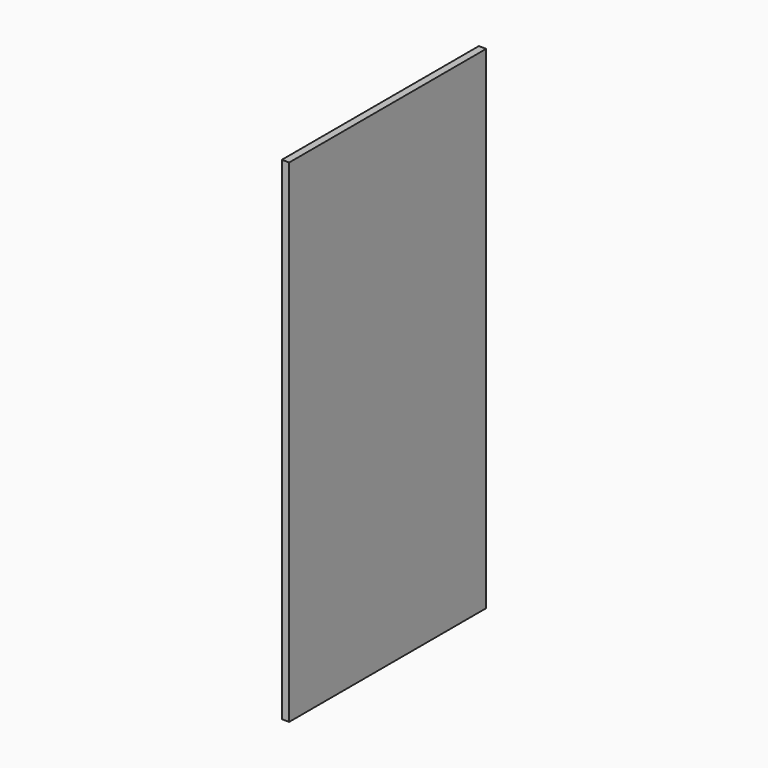
from build123d import *

# Parameters (mm, degrees)
F0_W     = 600
F0_H     = 1200
F1_DEPTH = 18
F2_DEPTH = 18


with BuildPart() as f1:
    # F0 (on Right) → F1 (new body)
    with BuildSketch(Plane.YZ):
        Rectangle(F0_W, F0_H)
    extrude(amount=F1_DEPTH)

    # F0 (on Right) → F2 (join)
    with BuildSketch(Plane.YZ):
        Rectangle(F0_W, F0_H)
    extrude(amount=F2_DEPTH)


solid = f1.part
